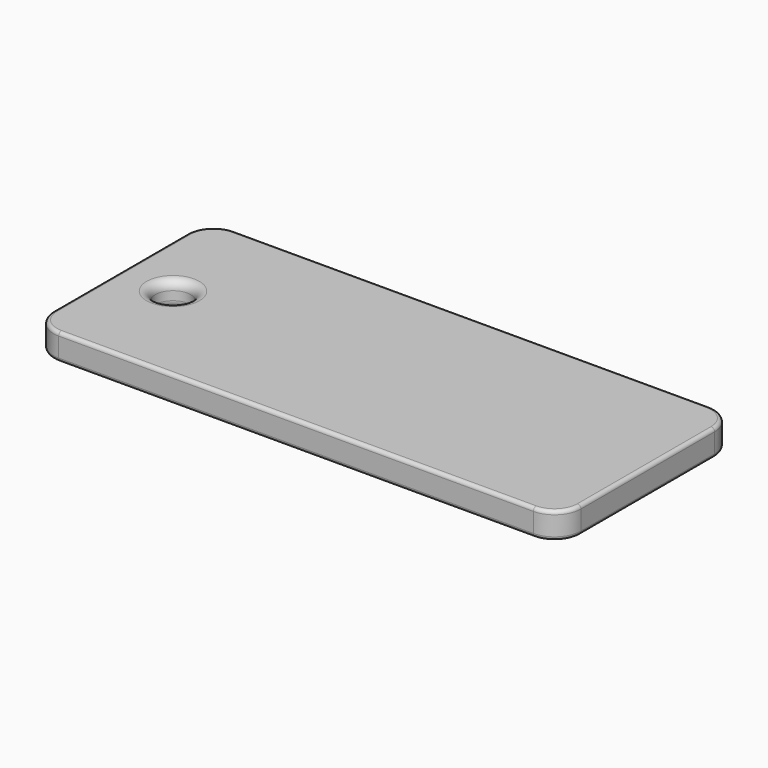
from build123d import *

# Parameters (mm, degrees)
SKETCH_W      = 60
SKETCH_H      = 25
EXTRUDE_DEPTH = 3
FILLET_R      = 3
SKETCH001_R   = 2
POCKET_DEPTH  = 3.001
FILLET001_R   = 1
FILLET002_R   = 0.4


with BuildPart() as part:
    # Sketch (on Sketch) → Extrude (new body)
    with BuildSketch(Plane.XY):
        with Locations((30, 12.5)):
            Rectangle(SKETCH_W, SKETCH_H)
    extrude(amount=EXTRUDE_DEPTH)

    # Fillet
    fillet_edges = [part.edges().sort_by_distance(p)[0] for p in [
        (0, 25, 1.5),
        (0, 0, 1.5),
        (60, 0, 1.5),
        (60, 25, 1.5),
    ]]
    fillet(fillet_edges, radius=FILLET_R)

    # Sketch001 (on Face5 of Fillet) → Pocket (cut, through all)
    with BuildSketch(Plane.XY.offset(3)):
        with Locations((6, 12.5)):
            Circle(SKETCH001_R)
    extrude(amount=-POCKET_DEPTH, mode=Mode.SUBTRACT)

    # Fillet001
    fillet001_edges = [part.edges().sort_by_distance(p)[0] for p in [
        (4, 12.5, 3),
        (4, 12.5, 0),
    ]]
    fillet(fillet001_edges, radius=FILLET001_R)

    # Fillet002
    fillet002_edges = [part.edges().sort_by_distance(p)[0] for p in [
        (60, 12.5, 3),
        (59.12132, 24.12132, 3),
        (30, 25, 3),
        (0.87868, 24.12132, 3),
        (0, 12.5, 3),
        (0.87868, 0.87868, 3),
        (30, 0, 3),
        (59.12132, 0.87868, 3),
        (59.12132, 0.87868, 0),
        (30, 0, 0),
        (0.87868, 0.87868, 0),
        (0, 12.5, 0),
        (0.87868, 24.12132, 0),
        (30, 25, 0),
        (59.12132, 24.12132, 0),
        (60, 12.5, 0),
    ]]
    fillet(fillet002_edges, radius=FILLET002_R)


solid = part.part
